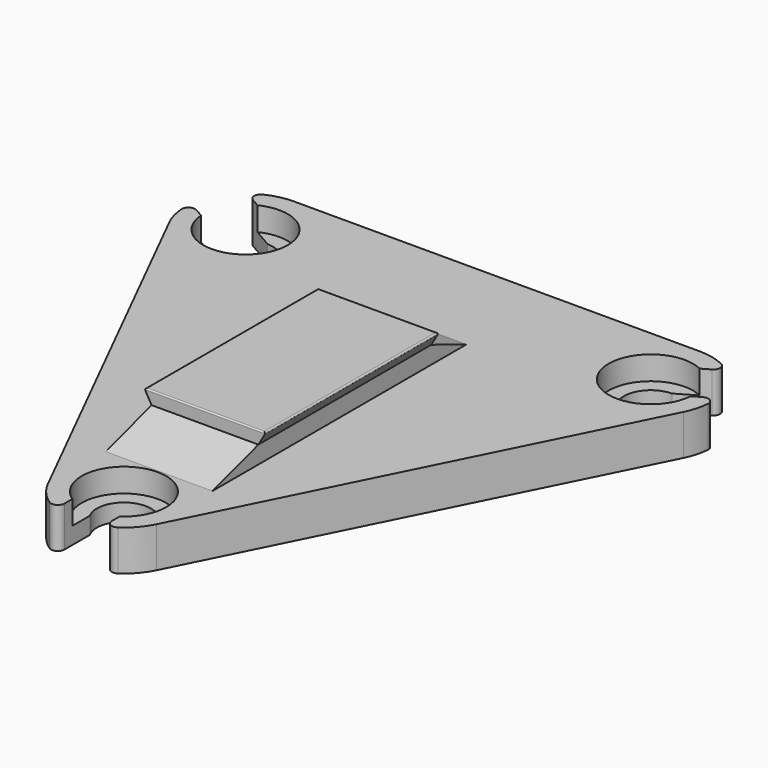
from build123d import *

# Parameters (mm, degrees)
F1_DEPTH = 6
F2_R     = 6.25
F3_DEPTH = 3.5
F4_W     = 15.8
F4_H     = 32
F5_DEPTH = 4.5
F7_DEPTH = 32
F9_DEPTH = 15.8
F10_R    = 0.2


with BuildPart() as f1:
    # F0 (on Top) → F1 (new body)
    with BuildSketch(Plane.XY):
        with BuildLine():
            ThreePointArc((-29.927051, 63.999335), (-26.535898, 58), (-33.427051, 57.937157))
            Line((-33.427051, 57.937157), (-37.47822, 60.2761))
            ThreePointArc((-37.47822, 60.2761), (-38.509832, 60.257063), (-38.975497, 59.336334))
            ThreePointArc((-38.975497, 59.336334), (-38.676985, 57.610456), (-38.049845, 55.975078))
            Line((-38.049845, 55.975078), (-8.049845, -4.024922))
            ThreePointArc((-8.049845, -4.024922), (-6.775035, -5.924433), (-5.0625, -7.441176))
            ThreePointArc((-5.0625, -7.441176), (-4.032293, -7.498262), (-3.5, -6.614378))
            Line((-3.5, -6.614378), (-3.5, -1.936492))
            ThreePointArc((-3.5, -1.936492), (0, 4), (3.5, -1.936492))
            Line((3.5, -1.936492), (3.5, -6.614378))
            ThreePointArc((3.5, -6.614378), (4.032293, -7.498262), (5.0625, -7.441176))
            ThreePointArc((5.0625, -7.441176), (6.775035, -5.924433), (8.049845, -4.024922))
            Line((8.049845, -4.024922), (38.049845, 55.975078))
            ThreePointArc((38.049845, 55.975078), (38.676985, 57.610456), (38.975497, 59.336334))
            ThreePointArc((38.975497, 59.336334), (38.509832, 60.257063), (37.47822, 60.2761))
            Line((37.47822, 60.2761), (33.427051, 57.937157))
            ThreePointArc((33.427051, 57.937157), (26.535898, 58), (29.927051, 63.999335))
            Line((29.927051, 63.999335), (33.97822, 66.338278))
            ThreePointArc((33.97822, 66.338278), (34.477539, 67.241199), (33.912997, 68.104841))
            ThreePointArc((33.912997, 68.104841), (32.007041, 68.773357), (30, 69))
            Line((30, 69), (-30, 69))
            ThreePointArc((-30, 69), (-32.007041, 68.773357), (-33.912997, 68.104841))
            ThreePointArc((-33.912997, 68.104841), (-34.477539, 67.241199), (-33.97822, 66.338278))
            Line((-33.97822, 66.338278), (-29.927051, 63.999335))
        make_face()
    extrude(amount=F1_DEPTH)

    # F2 (on face) → F3 (cut)
    with BuildSketch(Plane.XY.offset(6)):
        with Locations((-30, 60)):
            Circle(F2_R)
        Circle(F2_R)
        with Locations((30, 60)):
            Circle(F2_R)
    extrude(amount=-F3_DEPTH, mode=Mode.SUBTRACT)

    # F4 (on face) → F5 (join)
    with BuildSketch(Plane.XY.offset(6)):
        with Locations((0, 31)):
            Rectangle(F4_W, F4_H)
    extrude(amount=F5_DEPTH)

    # F6 (on face) → F7 (join)
    with BuildSketch(Plane.XZ.offset(-15)):
        Polygon((9, 10.5), (7.9, 10.5), (7.9, 8.594744), align=None)
        Polygon((-7.9, 8.594744), (-7.9, 10.5), (-9, 10.5), align=None)
    extrude(amount=-F7_DEPTH)

    # F8 (on face) → F9 (join)
    with BuildSketch(Plane(origin=(-7.9, 0, 0), x_dir=(0, -1, 0), z_dir=(-1, 0, 0))):
        Polygon((-6.5, 6), (-15, 8.594744), (-15, 6), align=None)
        Polygon((-47, 6), (-47, 8.594744), (-53.5, 6), align=None)
    extrude(amount=-F9_DEPTH)

    # F10
    f10_edges = [f1.edges().sort_by_distance(p)[0] for p in [
        (-9, 31, 10.5),
        (9, 31, 10.5),
        (0, 15, 10.5),
        (0, 47, 10.5),
    ]]
    fillet(f10_edges, radius=F10_R)


solid = f1.part
